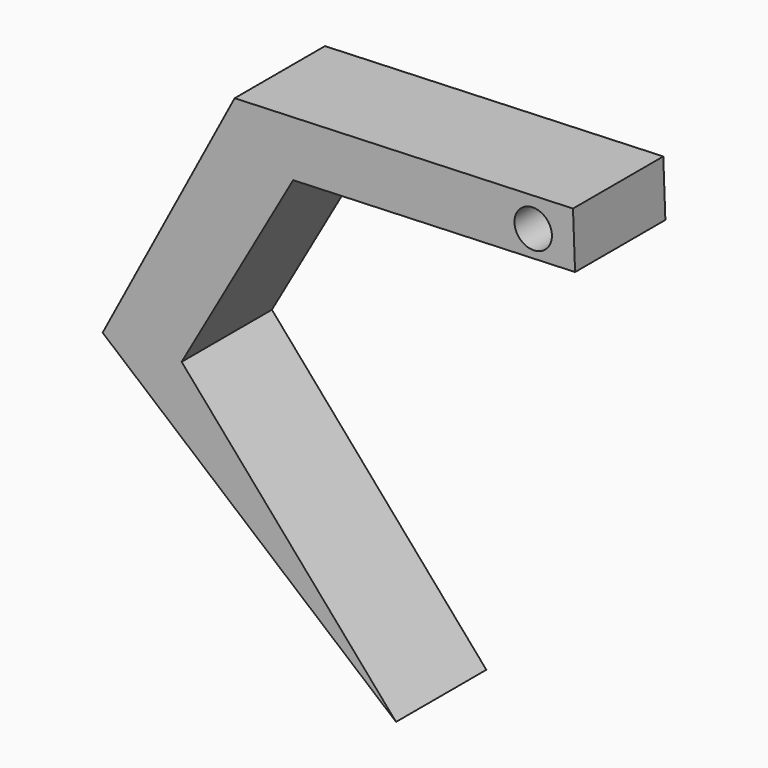
from build123d import *

# Parameters (mm, degrees)
F1_DEPTH = 25.4
F2_R     = 4.2164
F3_DEPTH = 25.4


with BuildPart() as f1:
    # F0 (on Front) → F1 (new body)
    with BuildSketch(Plane.XZ):
        Polygon((40.291968, 23.514533), (39.818994, 35.948949), (-36.32594, 33.052586), (-23.162144, 21.100897), align=None)
        Polygon((-23.162144, 21.100897), (-36.32594, 33.052586), (-66.04, -23.066258), (-48.26, -23.066258), align=None)
        Polygon((-48.26, -23.066258), (-66.04, -23.066258), (0, -78.71487), align=None)
    extrude(amount=F1_DEPTH)

    # F2 (on face) → F3 (cut)
    with BuildSketch(Plane.XZ.offset(25.4)):
        with Locations((30.864557, 29.022014)):
            Circle(F2_R)
    extrude(amount=-F3_DEPTH, mode=Mode.SUBTRACT)


solid = f1.part
